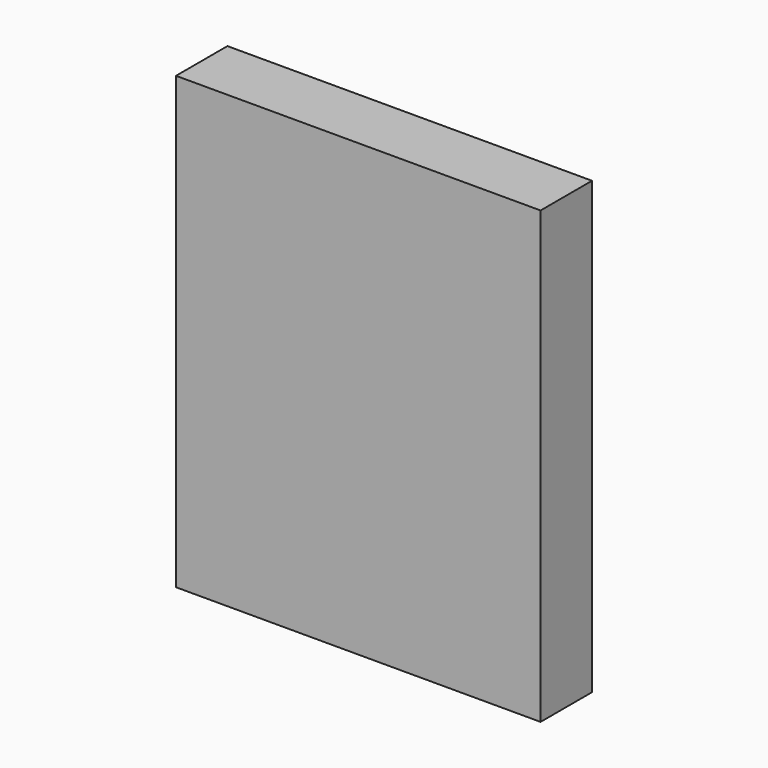
from build123d import *

# Parameters (mm, degrees)
F0_W     = 25
F0_H     = 75
F1_DEPTH = 25
F2_DEPTH = 25


with BuildPart() as f1:
    # F0 (on Front) → F1 (new body)
    with BuildSketch(Plane.XZ):
        Polygon((70.849749, 87.5), (-70.849749, 87.5), (-70.849749, 37.5), (-45.849749, 37.5), (-45.849749, -37.5), (-70.849749, -37.5), (-70.849749, -87.5), (70.849749, -87.5), (70.849749, -37.174404), (45.849749, -37.5), (45.849749, 37.5), (70.849749, 37.5), align=None)
        with Locations((-58.349749, 0)):
            Rectangle(F0_W, F0_H)
        Polygon((70.849749, -37.174404), (70.849749, 37.5), (45.849749, 37.5), (45.849749, -37.5), align=None)
    extrude(amount=F1_DEPTH)

    # F0 (on Front) → F2 (join)
    with BuildSketch(Plane.XZ):
        Polygon((70.849749, 87.5), (-70.849749, 87.5), (-70.849749, 37.5), (-45.849749, 37.5), (-45.849749, -37.5), (-70.849749, -37.5), (-70.849749, -87.5), (70.849749, -87.5), (70.849749, -37.174404), (45.849749, -37.5), (45.849749, 37.5), (70.849749, 37.5), align=None)
        with Locations((-58.349749, 0)):
            Rectangle(F0_W, F0_H)
        Polygon((70.849749, -37.174404), (70.849749, 37.5), (45.849749, 37.5), (45.849749, -37.5), align=None)
    extrude(amount=F2_DEPTH)


solid = f1.part
